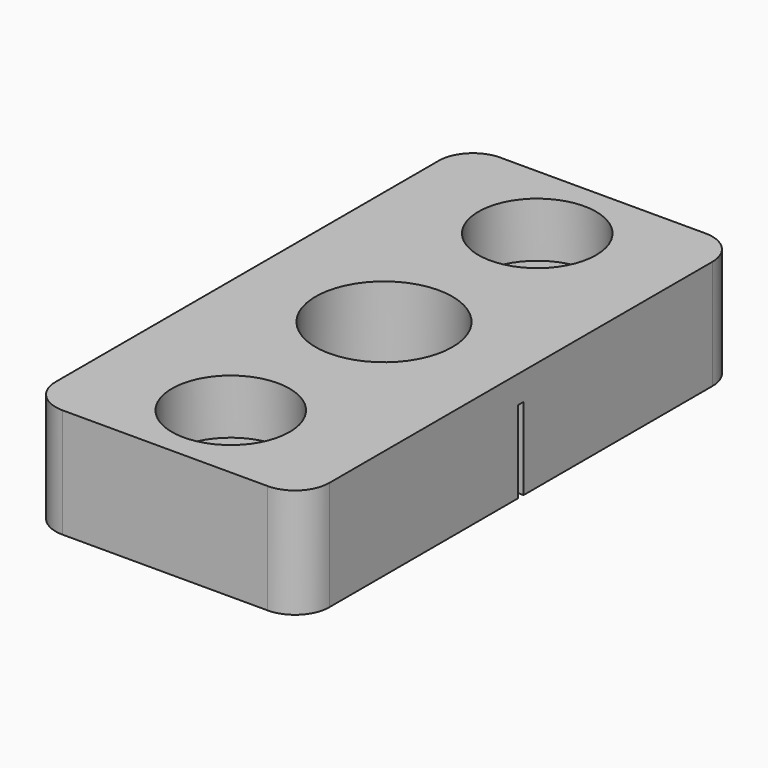
from build123d import *

# Parameters (mm, degrees)
F1_W     = 20
F1_H     = 40
F1_R     = 2.65
F1_R_2   = 5
F2_DEPTH = 8
F3_R     = 4.3
F4_DEPTH = 4
F5_R     = 2.5
F6_W     = 0.25
F6_H     = 6
F7_DEPTH = 1


with BuildPart() as f2:
    # F1 (on Top) → F2 (new body)
    with BuildSketch(Plane.XY):
        Rectangle(F1_W, F1_H)
        with Locations((0, -14)):
            Circle(F1_R, mode=Mode.SUBTRACT)
        Circle(F1_R_2, mode=Mode.SUBTRACT)
        with Locations((0, 14)):
            Circle(F1_R, mode=Mode.SUBTRACT)
    extrude(amount=F2_DEPTH)

    # F3 (on face) → F4 (cut)
    with BuildSketch(Plane.XY.offset(8)):
        with Locations((0, 14)):
            Circle(F3_R)
        with Locations((0, -14)):
            Circle(F3_R)
    extrude(amount=-F4_DEPTH, mode=Mode.SUBTRACT)

    # F5
    f5_edges = [f2.edges().sort_by_distance(p)[0] for p in [
        (10, -20, 4),
        (-10, -20, 4),
        (10, 20, 4),
        (-10, 20, 4),
    ]]
    fillet(f5_edges, radius=F5_R)

    # F6 (on face) → F7 (cut)
    with BuildSketch(Plane.YZ.offset(10)):
        with Locations((0.125, 3)):
            Rectangle(F6_W, F6_H)
        with Locations((-0.125, 3)):
            Rectangle(F6_W, F6_H)
    extrude(amount=-F7_DEPTH, mode=Mode.SUBTRACT)


solid = f2.part
